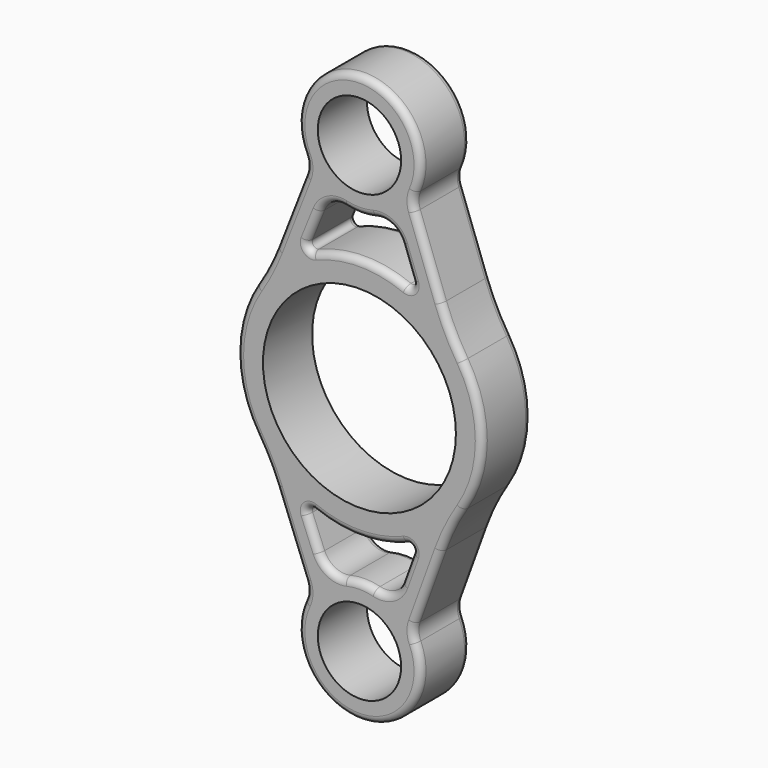
from build123d import *

# Parameters (mm, degrees)
F0_R     = 4.7498
F0_R_2   = 10.9982
F1_DEPTH = 7
F2_R     = 0.762


with BuildPart() as f1:
    # F0 (on Front) → F1 (new body)
    with BuildSketch(Plane.XZ):
        with BuildLine():
            ThreePointArc((-9.505798, 11.983685), (-10.528649, 9.697118), (-11.77175, 7.52242))
            ThreePointArc((-11.77175, 7.52242), (-13.97, 0), (-11.77175, -7.52242))
            ThreePointArc((-11.77175, -7.52242), (-10.528649, -9.697118), (-9.505798, -11.983685))
            Line((-9.505798, -11.983685), (-6.234194, -20.386156))
            ThreePointArc((-6.234194, -20.386156), (-6.06279, -21.400158), (-6.307479, -22.399011))
            ThreePointArc((-6.307479, -22.399011), (-0.10207, -32.384254), (6.392481, -22.584612))
            ThreePointArc((6.392481, -22.584612), (6.17838, -21.643937), (6.330503, -20.691274))
            Line((6.330503, -20.691274), (9.318868, -12.489681))
            ThreePointArc((9.318868, -12.489681), (10.41081, -9.936286), (11.774982, -7.51736))
            ThreePointArc((11.774982, -7.51736), (13.97, 0), (11.774982, 7.51736))
            ThreePointArc((11.774982, 7.51736), (10.41081, 9.936286), (9.318868, 12.489681))
            Line((9.318868, 12.489681), (6.330503, 20.691274))
            ThreePointArc((6.330503, 20.691274), (6.17838, 21.643937), (6.392481, 22.584612))
            ThreePointArc((6.392481, 22.584612), (-0.10207, 32.384254), (-6.307479, 22.399011))
            ThreePointArc((-6.307479, 22.399011), (-6.06279, 21.400158), (-6.234194, 20.386156))
            Line((-6.234194, 20.386156), (-9.505798, 11.983685))
        make_face()
        with Locations((0, -25.4)):
            Circle(F0_R, mode=Mode.SUBTRACT)
        with BuildLine():
            ThreePointArc((-5.218022, -12.958902), (0.032498, -13.969962), (5.278258, -12.934485))
            ThreePointArc((5.278258, -12.934485), (5.876934, -13.04929), (6.014422, -13.643168))
            Line((6.014422, -13.643168), (4.773629, -17.048535))
            ThreePointArc((4.773629, -17.048535), (3.569108, -18.427192), (1.750548, -18.637914))
            ThreePointArc((1.750548, -18.637914), (0.066471, -18.415316), (-1.621538, -18.605823))
            ThreePointArc((-1.621538, -18.605823), (-3.374305, -18.393256), (-4.56506, -17.089616))
            Line((-4.56506, -17.089616), (-5.944594, -13.687227))
            ThreePointArc((-5.944594, -13.687227), (-5.822349, -13.082603), (-5.218022, -12.958902))
        make_face(mode=Mode.SUBTRACT)
        Circle(F0_R_2, mode=Mode.SUBTRACT)
        with Locations((0, 25.4)):
            Circle(F0_R, mode=Mode.SUBTRACT)
        with BuildLine():
            ThreePointArc((1.750548, 18.637914), (3.569108, 18.427192), (4.773629, 17.048535))
            Line((4.773629, 17.048535), (6.014422, 13.643168))
            ThreePointArc((6.014422, 13.643168), (5.876934, 13.04929), (5.278258, 12.934485))
            ThreePointArc((5.278258, 12.934485), (0.032498, 13.969962), (-5.218022, 12.958902))
            ThreePointArc((-5.218022, 12.958902), (-5.822349, 13.082603), (-5.944594, 13.687227))
            Line((-5.944594, 13.687227), (-4.56506, 17.089616))
            ThreePointArc((-4.56506, 17.089616), (-3.374305, 18.393256), (-1.621538, 18.605823))
            ThreePointArc((-1.621538, 18.605823), (0.066471, 18.415316), (1.750548, 18.637914))
        make_face(mode=Mode.SUBTRACT)
    extrude(amount=F1_DEPTH)

    # F2
    f2_edges = [f1.edges().sort_by_distance(p)[0] for p in [
        (-10.528649, -7, 9.697118),
        (0.032498, -7, 13.969962),
        (0.032498, -7, -13.969962),
        (13.97, 0, 0),
        (5.394025, 0, 15.345851),
        (5.394025, 0, -15.345851),
    ]]
    fillet(f2_edges, radius=F2_R)


solid = f1.part
